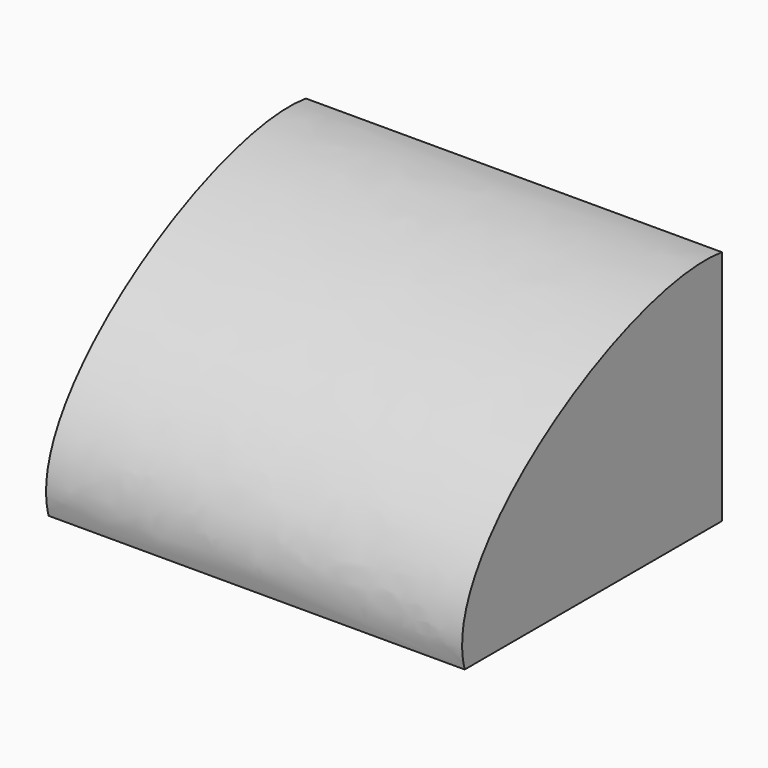
from build123d import *

# Parameters (mm, degrees)
F1_DEPTH = 273.05


with BuildPart() as f1:
    # F0 (on Right) → F1 (new body)
    with BuildSketch(Plane.YZ):
        with BuildLine():
            add(Edge.make_bspline(
                [(101.240692, 99.180623), (24.35081, 110.112102), (-132.02479, 19.633048), (-109.753812, -56.174386)],
                knots=[0, 0, 0, 0, 262.018814, 262.018814, 262.018814, 262.018814], degree=3))
            Line((-109.753812, -56.174386), (101.240692, -56.174386))
            Line((101.240692, -56.174386), (101.240692, 99.180623))
        make_face()
    extrude(amount=-F1_DEPTH)


solid = f1.part
